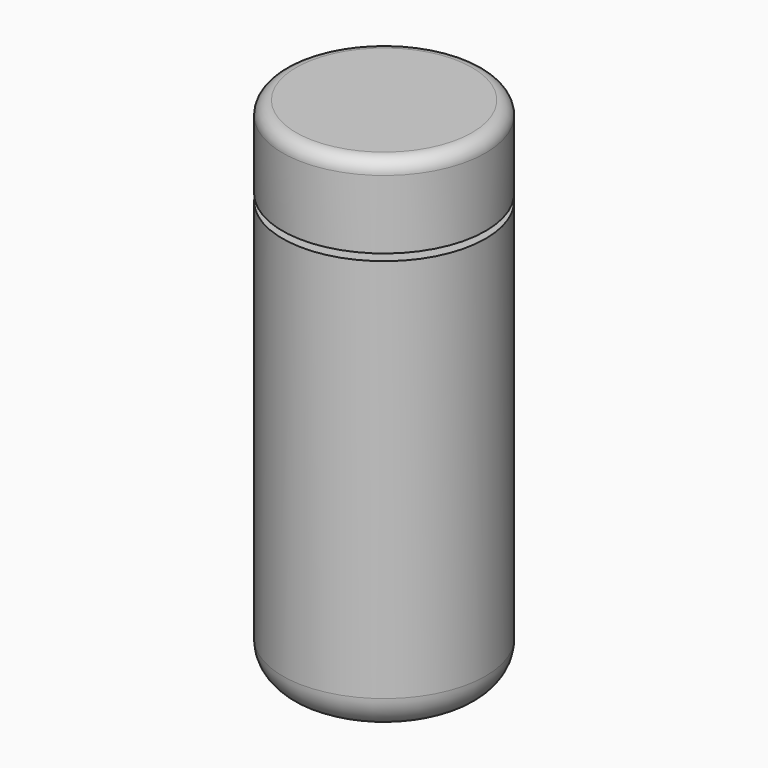
from build123d import *

# Parameters (mm, degrees)
F0_R     = 15
F1_DEPTH = 75
F2_R     = 5
F3_R     = 2
F4_W     = 6.931401
F4_H     = 1


with BuildPart() as f1:
    # F0 (on Top) → F1 (new body)
    with BuildSketch(Plane.XY):
        Circle(F0_R)
    extrude(amount=F1_DEPTH)

    # F2
    f2_edges = [f1.edges().sort_by_distance(p)[0] for p in [
        (-15, 0, 0),
    ]]
    fillet(f2_edges, radius=F2_R)

    # F3
    f3_edges = [f1.edges().sort_by_distance(p)[0] for p in [
        (-15, 0, 75),
    ]]
    fillet(f3_edges, radius=F3_R)

    # F4 (on Right) → F5 (revolve, cut)
    with BuildSketch(Plane.YZ):
        with Locations((15.878135, 62.361921)):
            Rectangle(F4_W, F4_H)
    revolve(axis=Axis((0, 0, 55.164355), (0, 0, 1)), mode=Mode.SUBTRACT)


solid = f1.part
